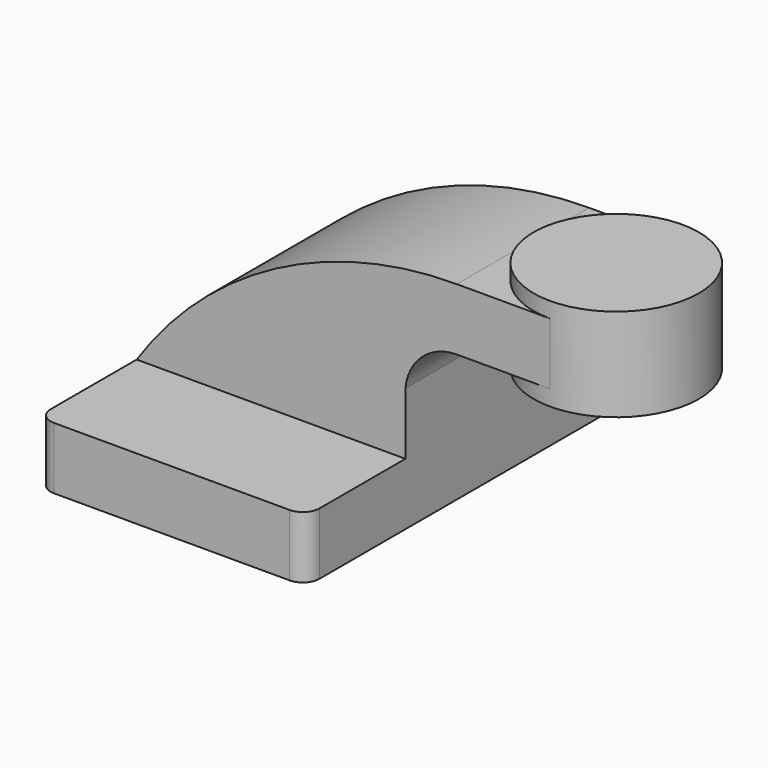
from build123d import *

# Parameters (mm, degrees)
F1_DEPTH = 63.5
F0_W     = 19.05
F0_H     = 19.05
F0_W_2   = 3.2533031947
F0_H_2   = 19.0246
F0_W_3   = 25.4
F2_DEPTH = 25.4
F4_R     = 5.08


with BuildPart() as f1:
    # F0 (on Front) → F1 (new body, symmetric)
    with BuildSketch(Plane.XZ):
        Polygon((32.2343749046, -52.3748), (-31.2656250954, -52.3748), (-31.2656250954, -71.4248), (51.2843749046, -71.4248), (51.2843749046, -52.3748), align=None)
    extrude(amount=F1_DEPTH, both=True)

    # F0 (on Front) → F2 (join, symmetric)
    with BuildSketch(Plane.XZ):
        with BuildLine():
            ThreePointArc((67.08107171, 0), (11.3693304709, -13.9099433247), (-31.2656250954, -52.3748))
            Line((-31.2656250954, -52.3748), (32.2343749046, -52.3748))
            Line((32.2343749046, -52.3748), (32.2343749046, -33.3248))
            ThreePointArc((32.2343749046, -33.3248), (42.9728025203, -9.6721882708), (67.08107171, 0))
        make_face()
        with BuildLine():
            Line((67.08107171, -19.0246), (67.08107171, 0))
            ThreePointArc((67.08107171, 0), (42.9728025203, -9.6721882708), (32.2343749046, -33.3248))
            Line((32.2343749046, -33.3248), (51.2843749046, -33.3248))
            ThreePointArc((51.2843749046, -33.3248), (56.4270660079, -23.1306668495), (67.08107171, -19.0246))
        make_face()
        with Locations((41.7593749046, -42.8498)):
            Rectangle(F0_W, F0_H)
        with Locations((68.7077233073, -9.5123)):
            Rectangle(F0_W_2, F0_H_2)
        with Locations((83.0343749046, -9.5123)):
            Rectangle(F0_W_3, F0_H_2)
    extrude(amount=F2_DEPTH, both=True)

    # F0 (on Front) → F3 (revolve)
    with BuildSketch(Plane.XZ):
        Polygon((95.7343749046, 4.7752), (95.7343749046, 0), (95.7343749046, -19.0246), (95.7343749046, -23.7998), (121.1343749046, -23.7998), (121.1343749046, 4.7752), align=None)
    revolve(axis=Axis((95.7343749046, 0, -9.5123), (0, 0, -1)))

    # F4
    f4_edges = [f1.edges().sort_by_distance(p)[0] for p in [
        (-31.265625, -63.5, -61.8998),
        (51.284375, -63.5, -61.8998),
        (51.284375, 63.5, -61.8998),
        (-31.265625, 63.5, -61.8998),
    ]]
    fillet(f4_edges, radius=F4_R)


solid = f1.part
